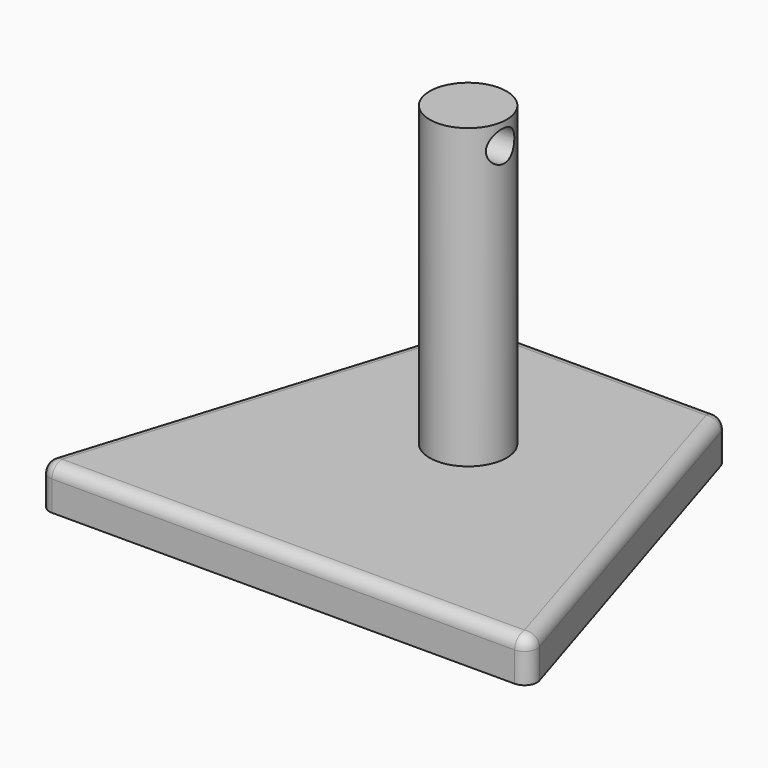
from build123d import *

# Parameters (mm, degrees)
F0_W     = 200
F0_H     = 160
F1_DEPTH = 17
F3_DEPTH = 17.001
F4_R     = 5
F5_R     = 15.4974026332
F6_DEPTH = 120
F7_R     = 6.3299000504
F8_DEPTH = 41.6


with BuildPart() as f1:
    # F0 (on Top) → F1 (new body)
    with BuildSketch(Plane.XY):
        with Locations((5.6164655834, 14.2621519414)):
            Rectangle(F0_W, F0_H)
    extrude(amount=F1_DEPTH)

    # F2 (on face) → F3 (cut, through all)
    with BuildSketch(Plane.XY.offset(17)):
        Polygon((-94.3835344166, 94.2621519414), (-94.3835344166, -65.7378480586), (-44.3835344166, 94.2621519414), align=None)
        Polygon((55.6164655834, 94.2621519414), (105.6164655834, -65.7378480586), (105.6164655834, 94.2621519414), align=None)
    extrude(amount=-F3_DEPTH, mode=Mode.SUBTRACT)

    # F4
    f4_edges = [f1.edges().sort_by_distance(p)[0] for p in [
        (-94.383534, -65.737848, 8.5),
        (105.616466, -65.737848, 8.5),
        (55.616466, 94.262152, 8.5),
        (-44.383534, 94.262152, 8.5),
        (80.616466, 14.262152, 17),
        (5.616466, -65.737848, 17),
        (-69.383534, 14.262152, 17),
        (5.616466, 94.262152, 17),
    ]]
    fillet(f4_edges, radius=F4_R)

    # F5 (on face) → F6 (join)
    with BuildSketch(Plane.XY.offset(17)):
        with Locations((5.6164655834, 27.3357126862)):
            Circle(F5_R)
    extrude(amount=F6_DEPTH)

    # F7 (on Right) → F8 (cut, symmetric)
    with BuildSketch(Plane.YZ):
        with Locations((25.8725117892, 128.2121986151)):
            Circle(F7_R)
    extrude(amount=F8_DEPTH, both=True, mode=Mode.SUBTRACT)


solid = f1.part
